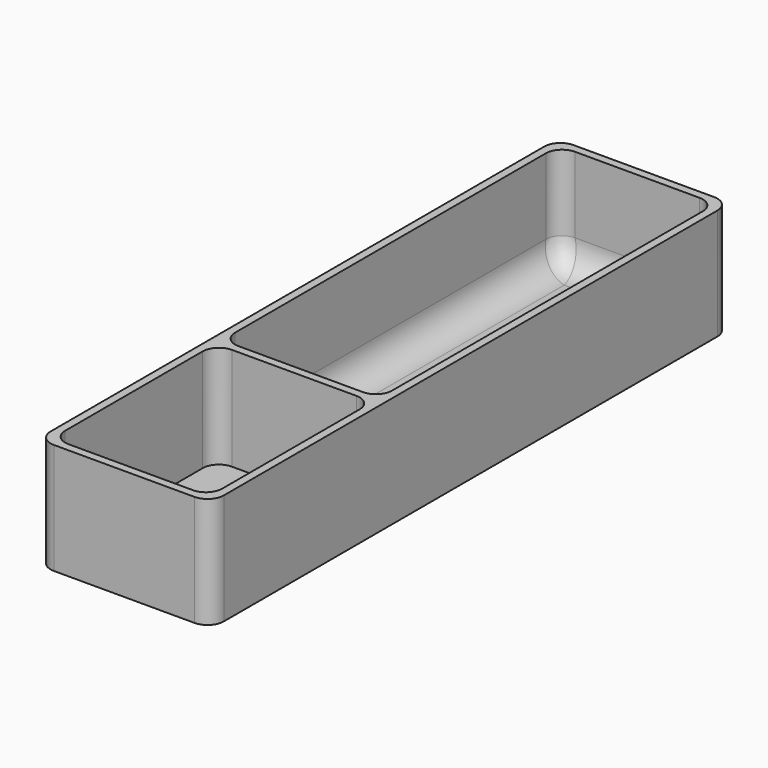
from build123d import *

# Parameters (mm, degrees)
SKETCH012_W    = 32
SKETCH012_H    = 120
PAD005_DEPTH   = 20.5
THICKNESS001_T = -1.5
SKETCH013_W    = 1.5
SKETCH013_H    = 20.5
PAD006_DEPTH   = 29
FILLET007_R    = 3
FILLET008_R    = 5


with BuildPart() as part:
    # Sketch012 → Pad005 (new body)
    with BuildSketch(Plane.XY):
        Rectangle(SKETCH012_W, SKETCH012_H)
    extrude(amount=PAD005_DEPTH)

    # Thickness001
    thickness001_openings = [part.faces().sort_by_distance(p)[0] for p in [
        (0, 0, 20.5),
    ]]
    offset(amount=THICKNESS001_T, openings=thickness001_openings)

    # Sketch013 (on DatumPlane) → Pad006 (join)
    with BuildSketch(Plane(origin=(-14.5, -20, 0), x_dir=(0, 1, 0), z_dir=(1, 0, 0))):
        with Locations((0, 10.25)):
            Rectangle(SKETCH013_W, SKETCH013_H)
    extrude(amount=PAD006_DEPTH)

    # Fillet007
    fillet007_edges = [part.edges().sort_by_distance(p)[0] for p in [
        (-14.5, 58.5, 11),
        (14.5, 58.5, 11),
        (16, 60, 10.25),
        (-16, 60, 10.25),
        (-14.5, -58.5, 11),
        (-16, -60, 10.25),
        (-14.5, -20.75, 11),
        (-14.5, -19.25, 11),
        (14.5, -19.25, 11),
        (14.5, -20.75, 11),
        (14.5, -58.5, 11),
        (16, -60, 10.25),
    ]]
    fillet(fillet007_edges, radius=FILLET007_R)

    # Fillet008
    fillet008_edges = [part.edges().sort_by_distance(p)[0] for p in [
        (0, 58.5, 1.5),
        (-13.62132, 57.62132, 1.5),
        (13.62132, 57.62132, 1.5),
        (-14.5, 19.625, 1.5),
        (14.5, 19.625, 1.5),
        (-13.62132, -18.37132, 1.5),
        (13.62132, -18.37132, 1.5),
        (0, -19.25, 1.5),
    ]]
    fillet(fillet008_edges, radius=FILLET008_R)


with BuildPart() as part_1:
    # Body004 placement: moved
    add(part.part.moved(Location((-22, 83, 14))))


with BuildPart() as part_2:
    # Body006 placement: moved
    add(part_1.part.moved(Location((64, 0, 0))))


solid = part_2.part
